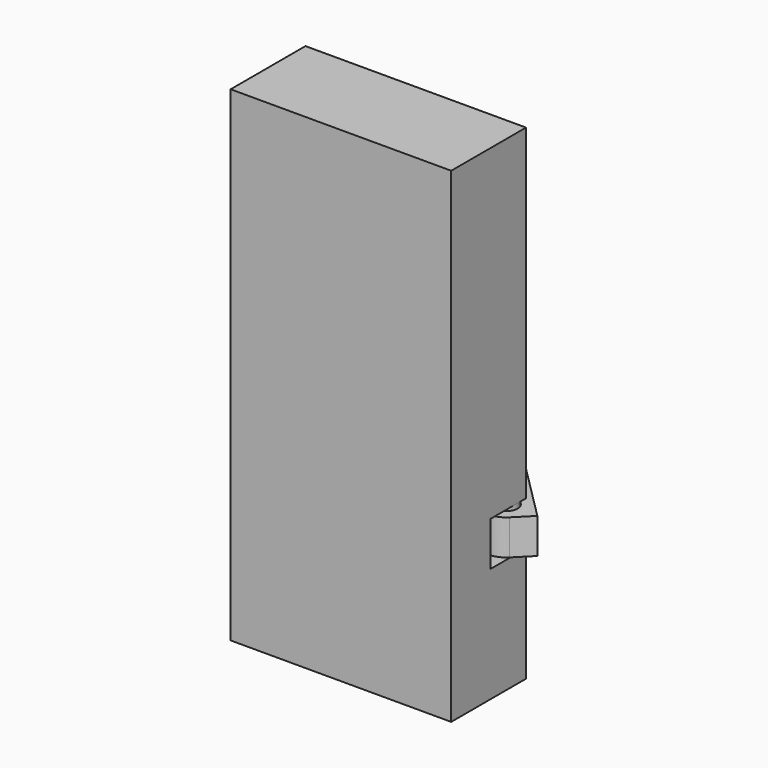
from build123d import *

# Parameters (mm, degrees)
F0_W      = 50.8
F0_H      = 2.54
F1_DEPTH  = 127
F2_W      = 63.5
F2_H      = 26.924
F3_DEPTH  = 6.35
F4_W      = 63.5
F4_H      = 26.924
F5_DEPTH  = 6.35
F6_W      = 12.7
F6_H      = 12.7
F7_DEPTH  = 6.35
F8_R      = 3.175
F9_DEPTH  = 12.7
F11_START = 1.27
F10_W     = 2.54
F10_H     = 2.54
F11_DEPTH = 10.16


with BuildPart() as f1:
    # F0 (on Top) → F1 (new body)
    with BuildSketch(Plane.XY):
        with Locations((0.755213508, -18.3883576206)):
            Rectangle(F0_W, F0_H)
        Polygon((-24.644786492, -19.6583576206), (-24.644786492, -17.1183576206), (-24.644786492, 7.2656423794), (-30.994786492, 7.2656423794), (-30.994786492, -19.6583576206), align=None)
        Polygon((26.155213508, 7.2656423794), (26.155213508, -17.1183576206), (26.155213508, -19.6583576206), (32.505213508, -19.6583576206), (32.505213508, 7.2656423794), align=None)
    extrude(amount=F1_DEPTH)

    # F2 (on face) → F3 (join)
    with BuildSketch(Plane(origin=(0, 0, 0), x_dir=(1, 0, 0), z_dir=(0, 0, -1))):
        with Locations((0.755213508, 6.1963576206)):
            Rectangle(F2_W, F2_H)
    extrude(amount=F3_DEPTH)

    # F4 (on face) → F5 (join)
    with BuildSketch(Plane.XY.offset(127)):
        with Locations((0.755213508, -6.1963576206)):
            Rectangle(F4_W, F4_H)
    extrude(amount=F5_DEPTH)

    # F6 (on face) → F7 (cut, through all)
    with BuildSketch(Plane.YZ.offset(32.505213508)):
        with Locations((0.9156423794, 33.02)):
            Rectangle(F6_W, F6_H)
    extrude(amount=-F7_DEPTH, mode=Mode.SUBTRACT)

    # F8 (on face) → F9 (join, through all)
    with BuildSketch(Plane.XY.offset(26.67)):
        with Locations((29.330213508, 4.0906423794)):
            Circle(F8_R)
    extrude(amount=F9_DEPTH)

    # F10 (on face) → F11 (join)
    with BuildSketch(Plane.XY.offset(26.67).offset(F11_START)):
        with BuildLine():
            ThreePointArc((26.9953469165, 6.4255089708), (30.5938342017, 7.1412925957), (32.632213508, 4.0906423794))
            ThreePointArc((32.632213508, 4.0906423794), (32.3808637244, 2.8270216857), (31.6650800995, 1.7557757879))
            Line((31.6650800995, 1.7557757879), (33.8203415686, -0.3994856812))
            ThreePointArc((33.8203415686, -0.3994856812), (35.1968485395, 1.6606025838), (35.680213508, 4.0906423794))
            ThreePointArc((35.680213508, 4.0906423794), (35.1968485273, 6.5206822043), (33.8203415234, 8.580770485))
            ThreePointArc((33.8203415234, 8.580770485), (29.3302134761, 10.4406423794), (24.8400854475, 8.5807704399))
            Line((24.8400854475, 8.5807704399), (26.9953469165, 6.4255089708))
        make_face()
        with BuildLine():
            ThreePointArc((31.6650800995, 1.7557757879), (26.9953469165, 1.7557757879), (26.9953469165, 6.4255089708))
            Line((26.9953469165, 6.4255089708), (24.8400854475, 8.5807704399))
            ThreePointArc((24.8400854475, 8.5807704399), (24.8400854475, -0.3994856812), (33.8203415686, -0.3994856812))
            Line((33.8203415686, -0.3994856812), (31.6650800995, 1.7557757879))
        make_face()
        with BuildLine():
            Line((3.539213508, 29.8816423794), (24.8400854475, 8.5807704399))
            ThreePointArc((24.8400854475, 8.5807704399), (29.3302134761, 10.4406423794), (33.8203415234, 8.580770485))
            Line((33.8203415234, 8.580770485), (8.0293415685, 34.3717704399))
            Line((8.0293415685, 34.3717704399), (8.0293415685, 29.8816423794))
            Line((8.0293415685, 29.8816423794), (3.539213508, 29.8816423794))
        make_face()
        with BuildLine():
            ThreePointArc((35.680213508, 4.0906423794), (35.1968485395, 1.6606025838), (33.8203415686, -0.3994856812))
            Line((33.8203415686, -0.3994856812), (38.3104696291, 4.0906423794))
            Line((38.3104696291, 4.0906423794), (33.8203415234, 8.580770485))
            ThreePointArc((33.8203415234, 8.580770485), (35.1968485273, 6.5206822043), (35.680213508, 4.0906423794))
        make_face()
        Polygon((-4.2345756454, 29.8816423794), (3.539213508, 29.8816423794), (8.0293415685, 34.3717704399), (-8.0293415685, 34.3717704399), align=None)
        Polygon((8.0293415685, 34.3717704399), (3.539213508, 29.8816423794), (8.0293415685, 29.8816423794), align=None)
        Polygon((-30.994786492, 7.2656423794), (-4.2345756454, 29.8816423794), (-8.0293415685, 29.8816423794), (-8.0293415685, 34.3717704399), (-37.344786492, 9.5962518093), (-33.5500205688, 5.1061237488), align=None)
        Polygon((-8.0293415685, 29.8816423794), (-4.2345756454, 29.8816423794), (-8.0293415685, 34.3717704399), align=None)
        Polygon((-30.994786492, 2.1856423794), (-30.994786492, 7.2656423794), (-33.5500205688, 5.1061237488), (-37.344786492, 9.5962518093), (-30.994786492, -0.3543576206), align=None)
        with Locations((-29.724786492, 0.9156423794)):
            Rectangle(F10_W, F10_H)
    extrude(amount=F11_DEPTH)


solid = f1.part
